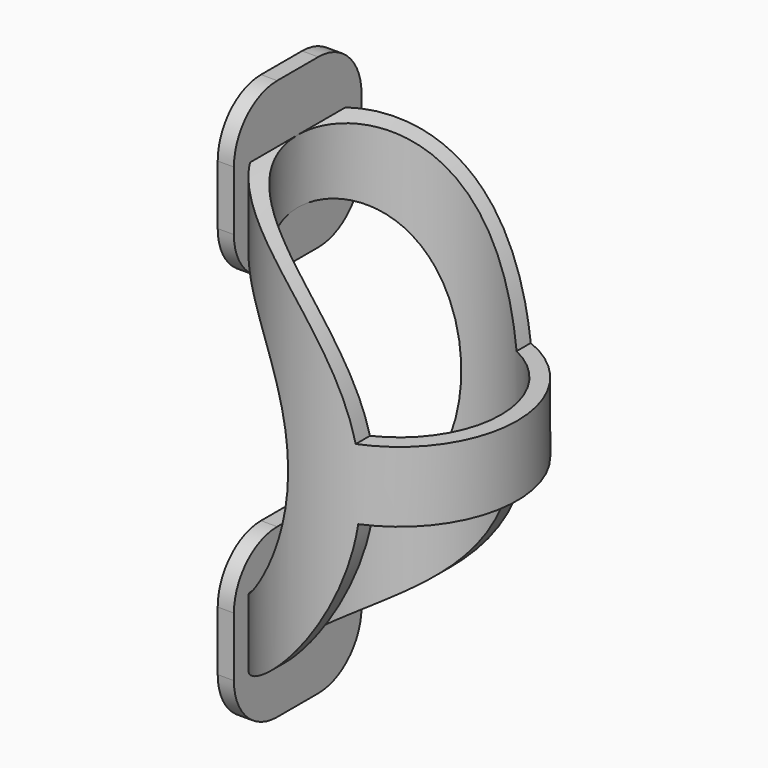
from build123d import *

# Parameters (mm, degrees)
F0_R      = 10.9
F1_DEPTH  = 42
F2_R      = 9.4
F3_DEPTH  = 42.001
F6_DEPTH  = 12.5
F8_DEPTH  = 21.801
F11_DEPTH = 1.5


with BuildPart() as f1:
    # F0 (on Top) → F1 (new body)
    with BuildSketch(Plane.XY):
        Circle(F0_R)
    extrude(amount=F1_DEPTH)

    # F2 (on face) → F3 (cut, through all)
    with BuildSketch(Plane.XY.offset(42)):
        Circle(F2_R)
    extrude(amount=-F3_DEPTH, mode=Mode.SUBTRACT)

    # F5 (on Front) → F6 (cut, symmetric)
    with BuildSketch(Plane.XZ):
        with BuildLine():
            Line((-11.542541, 36.75), (-11.411954, 5.25))
            ThreePointArc((-11.411954, 5.25), (-1.667904, 21.040666), (-11.542541, 36.75))
        make_face()
    extrude(amount=F6_DEPTH, both=True, mode=Mode.SUBTRACT)

    # F7 (on offset) → F8 (cut, through all)
    with BuildSketch(Plane.XZ.offset(10.9)):
        with BuildLine():
            ThreePointArc((4.231878, 18.23807), (-0.511604, 7.0137), (-10.476297, 0))
            Line((-10.476297, 0), (25.804834, 0))
            Line((25.804834, 0), (25.804834, 42.122509))
            Line((25.804834, 42.122509), (-11.409752, 42.122509))
            ThreePointArc((-11.409752, 42.122509), (-1.206098, 35.627044), (4.060388, 24.73807))
            Line((4.060388, 24.73807), (19.028962, 24.73807))
            Line((19.028962, 24.73807), (19.028962, 18.23807))
            Line((19.028962, 18.23807), (4.231878, 18.23807))
        make_face()
    extrude(amount=-F8_DEPTH, mode=Mode.SUBTRACT)

    # F10 (on offset) → F11 (join)
    with BuildSketch(Plane.YZ.offset(-10.9)):
        with BuildLine():
            ThreePointArc((7.375, 41.799096), (5.910534, 45.33463), (2.375, 46.799096))
            Line((2.375, 46.799096), (-2.375, 46.799096))
            ThreePointArc((-2.375, 46.799096), (-5.910534, 45.33463), (-7.375, 41.799096))
            Line((-7.375, 41.799096), (-7.375, 36.299096))
            ThreePointArc((-7.375, 36.299096), (-5.910534, 32.763562), (-2.375, 31.299096))
            Line((-2.375, 31.299096), (2.375, 31.299096))
            ThreePointArc((2.375, 31.299096), (5.910534, 32.763562), (7.375, 36.299096))
            Line((7.375, 36.299096), (7.375, 41.799096))
        make_face()
        with BuildLine():
            ThreePointArc((2.375, -5.018251), (5.910534, -3.553785), (7.375, -0.018251))
            Line((7.375, -0.018251), (7.375, 5.481749))
            ThreePointArc((7.375, 5.481749), (5.910534, 9.017283), (2.375, 10.481749))
            Line((2.375, 10.481749), (-2.375, 10.481749))
            ThreePointArc((-2.375, 10.481749), (-5.910534, 9.017283), (-7.375, 5.481749))
            Line((-7.375, 5.481749), (-7.375, -0.018251))
            ThreePointArc((-7.375, -0.018251), (-5.910534, -3.553785), (-2.375, -5.018251))
            Line((-2.375, -5.018251), (2.375, -5.018251))
        make_face()
    extrude(amount=F11_DEPTH)


solid = f1.part
